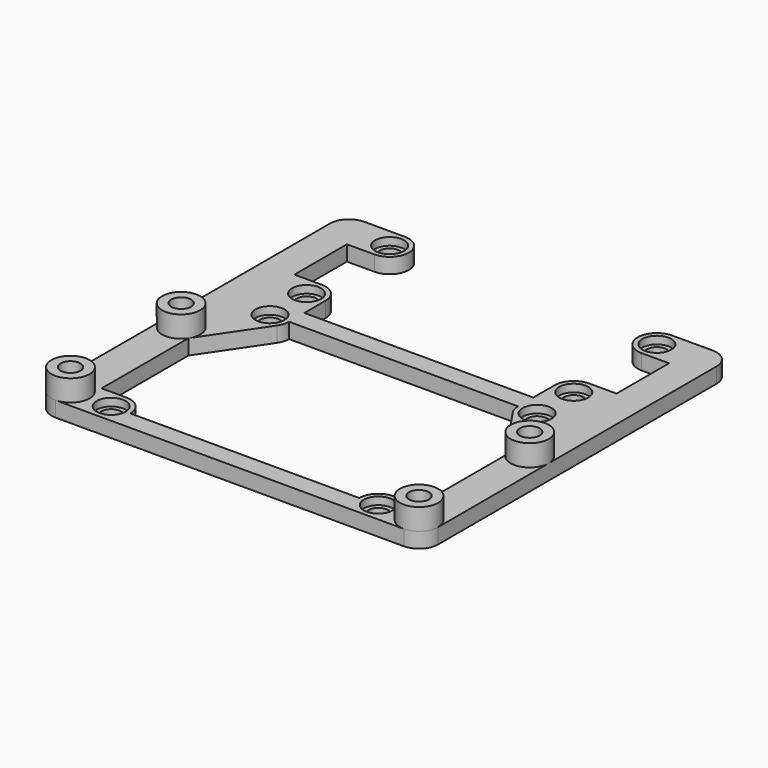
from build123d import *

# Parameters (mm, degrees)
F2_DEPTH = 2.54
F3_R     = 3.175
F4_DEPTH = 3.556
F5_R     = 1.651
F6_DEPTH = 6.096
F7_R     = 2.413
F8_DEPTH = 1.27


with BuildPart() as f2:
    # F1 (on Top) → F2 (new body)
    with BuildSketch(Plane.XY):
        with BuildLine():
            Line((-32.1691, 46.4058), (-32.1691, -11.5062))
            ThreePointArc((-32.1691, -11.5062), (-31.239164, -13.751264), (-28.9941, -14.6812))
            Line((-28.9941, -14.6812), (28.9941, -14.6812))
            ThreePointArc((28.9941, -14.6812), (31.239164, -13.751264), (32.1691, -11.5062))
            Line((32.1691, -11.5062), (32.1691, 46.4058))
            ThreePointArc((32.1691, 46.4058), (31.239164, 48.650864), (28.9941, 49.5808))
            Line((28.9941, 49.5808), (22.225, 49.5808))
            ThreePointArc((22.225, 49.5808), (19.05, 46.4058), (22.225, 43.2308))
            Line((22.225, 43.2308), (26.797, 43.2308))
            Line((26.797, 43.2308), (26.797, 32.3088))
            Line((26.797, 32.3088), (22.225, 32.3088))
            ThreePointArc((22.225, 32.3088), (19.979936, 31.378864), (19.05, 29.1338))
            Line((19.05, 29.1338), (19.05, 24.6888))
            Line((19.05, 24.6888), (-19.05, 24.6888))
            Line((-19.05, 24.6888), (-19.05, 29.1338))
            ThreePointArc((-19.05, 29.1338), (-19.979936, 31.378864), (-22.225, 32.3088))
            Line((-22.225, 32.3088), (-26.797, 32.3088))
            Line((-26.797, 32.3088), (-26.797, 43.2308))
            Line((-26.797, 43.2308), (-22.225, 43.2308))
            ThreePointArc((-22.225, 43.2308), (-19.05, 46.4058), (-22.225, 49.5808))
            Line((-22.225, 49.5808), (-28.9941, 49.5808))
            ThreePointArc((-28.9941, 49.5808), (-31.239164, 48.650864), (-32.1691, 46.4058))
        make_face()
        with BuildLine():
            Line((-26.364209, 9.727352), (-19.595109, 19.734952))
            ThreePointArc((-19.595109, 19.734952), (-19.189335, 20.583552), (-19.05, 21.5138))
            Line((-19.05, 21.5138), (19.05, 21.5138))
            ThreePointArc((19.05, 21.5138), (19.189335, 20.583552), (19.595109, 19.734952))
            Line((19.595109, 19.734952), (26.364209, 9.727352))
            Line((26.364209, 9.727352), (26.364209, -8.3312))
            Line((26.364209, -8.3312), (22.225, -8.3312))
            ThreePointArc((22.225, -8.3312), (19.979936, -9.261136), (19.05, -11.5062))
            Line((19.05, -11.5062), (-19.05, -11.5062))
            ThreePointArc((-19.05, -11.5062), (-19.979936, -9.261136), (-22.225, -8.3312))
            Line((-22.225, -8.3312), (-26.364209, -8.3312))
            Line((-26.364209, -8.3312), (-26.364209, 9.727352))
        make_face(mode=Mode.SUBTRACT)
    extrude(amount=F2_DEPTH)

    # F3 (on face) → F4 (join)
    with BuildSketch(Plane.XY.offset(2.54)):
        with Locations((-28.9941, -11.5062)):
            Circle(F3_R)
        with Locations((-28.9941, 11.5062)):
            Circle(F3_R)
        with Locations((28.9941, 11.5062)):
            Circle(F3_R)
        with Locations((28.9941, -11.5062)):
            Circle(F3_R)
    extrude(amount=F4_DEPTH)

    # F5 (on face) → F6 (cut, through all)
    with BuildSketch(Plane(origin=(0, 0, 0), x_dir=(1, 0, 0), z_dir=(0, 0, -1))):
        with Locations((28.9941, -11.5062)):
            Circle(F5_R)
        with Locations((22.225, -21.5138)):
            Circle(F5_R)
        with Locations((-22.225, -21.5138)):
            Circle(F5_R)
        with Locations((-28.9941, -11.5062)):
            Circle(F5_R)
        with Locations((-28.9941, 11.5062)):
            Circle(F5_R)
        with Locations((-22.225, 11.5062)):
            Circle(F5_R)
        with Locations((22.225, 11.5062)):
            Circle(F5_R)
        with Locations((28.9941, 11.5062)):
            Circle(F5_R)
        with Locations((22.225, -29.1338)):
            Circle(F5_R)
        with Locations((22.225, -46.4058)):
            Circle(F5_R)
        with Locations((-22.225, -29.1338)):
            Circle(F5_R)
        with Locations((-22.225, -46.4058)):
            Circle(F5_R)
    extrude(amount=-F6_DEPTH, mode=Mode.SUBTRACT)

    # F7 (on face) → F8 (cut)
    with BuildSketch(Plane.XY.offset(2.54)):
        with Locations((22.225, -11.5062)):
            Circle(F7_R)
        with Locations((22.225, 21.5138)):
            Circle(F7_R)
        with Locations((22.225, 29.1338)):
            Circle(F7_R)
        with Locations((22.225, 46.4058)):
            Circle(F7_R)
        with Locations((-22.225, 46.4058)):
            Circle(F7_R)
        with Locations((-22.225, 29.1338)):
            Circle(F7_R)
        with Locations((-22.225, 21.5138)):
            Circle(F7_R)
        with Locations((-22.225, -11.5062)):
            Circle(F7_R)
    extrude(amount=-F8_DEPTH, mode=Mode.SUBTRACT)


solid = f2.part
